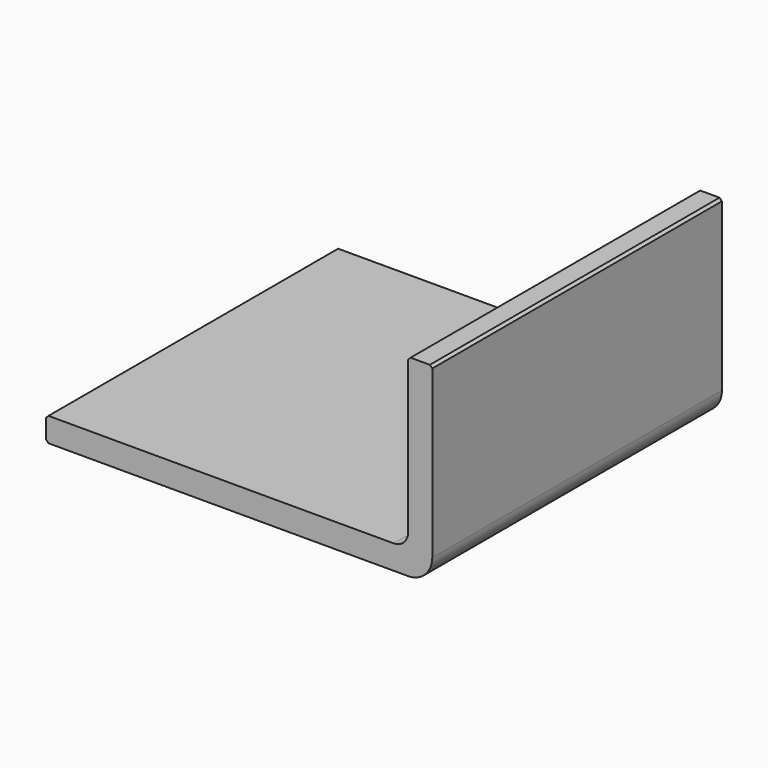
from build123d import *

# Parameters (mm, degrees)
F1_DEPTH = 381
F2_SIZE  = 2.54


with BuildPart() as f1:
    # F0 (on Front) → F1 (new body)
    with BuildSketch(Plane.XZ):
        with BuildLine():
            Line((388.178844, 25.4), (22.418844, 25.4))
            Line((22.418844, 25.4), (22.418844, 0))
            Line((22.418844, 0), (403.418844, 0))
            ThreePointArc((403.418844, 0), (421.379356, 7.439488), (428.818844, 25.4))
            Line((428.818844, 25.4), (428.818844, 203.2))
            Line((428.818844, 203.2), (403.418844, 203.2))
            Line((403.418844, 203.2), (403.418844, 40.64))
            ThreePointArc((403.418844, 40.64), (398.955151, 29.863693), (388.178844, 25.4))
        make_face()
    extrude(amount=F1_DEPTH)

    # F2
    f2_edges = [f1.edges().sort_by_distance(p)[0] for p in [
        (22.418844, -190.5, 0),
        (22.418844, -190.5, 25.4),
        (428.818844, -190.5, 203.2),
        (403.418844, -190.5, 203.2),
    ]]
    chamfer(f2_edges, length=F2_SIZE)


solid = f1.part
